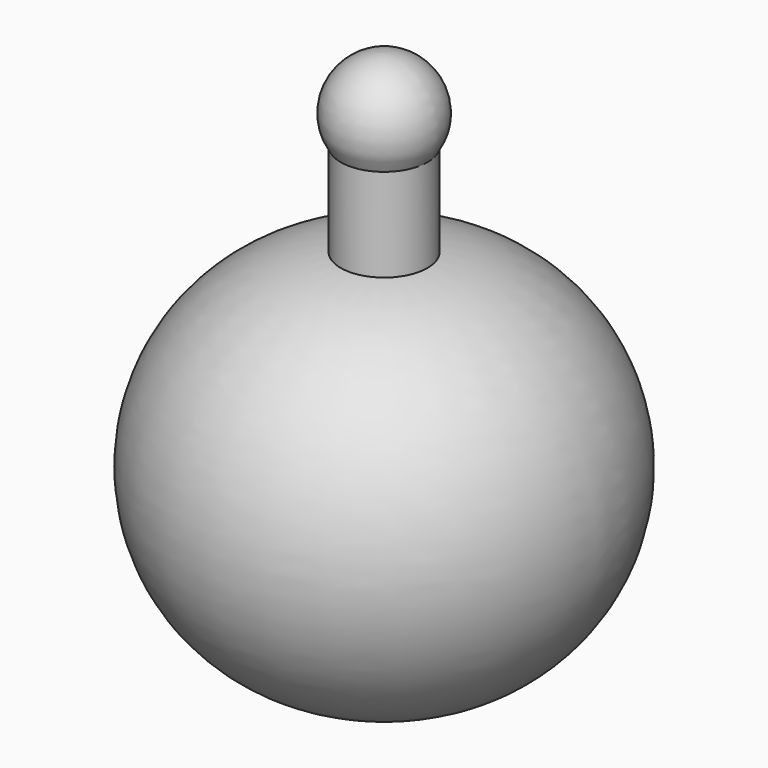
from build123d import *


with BuildPart() as f1:
    # F0 (on Front) → F1 (revolve)
    with BuildSketch(Plane.XZ):
        with BuildLine():
            Line((1.75, -3.914033), (1.75, -7.128572))
            ThreePointArc((1.75, -7.128572), (7.276659, -0.519886), (1.5, 5.871428))
            Line((1.5, 5.871428), (1.5, 9.085967))
            ThreePointArc((1.5, 9.085967), (1.591273, 10.94372), (0, 11.90675))
            Line((0, 11.90675), (0, -0.864493))
            ThreePointArc((0, -0.864493), (1.757995, -1.88255), (1.75, -3.914033))
        make_face()
    revolve(axis=Axis((0, 0, -4.992857), (0, 0, -1)))


solid = f1.part
